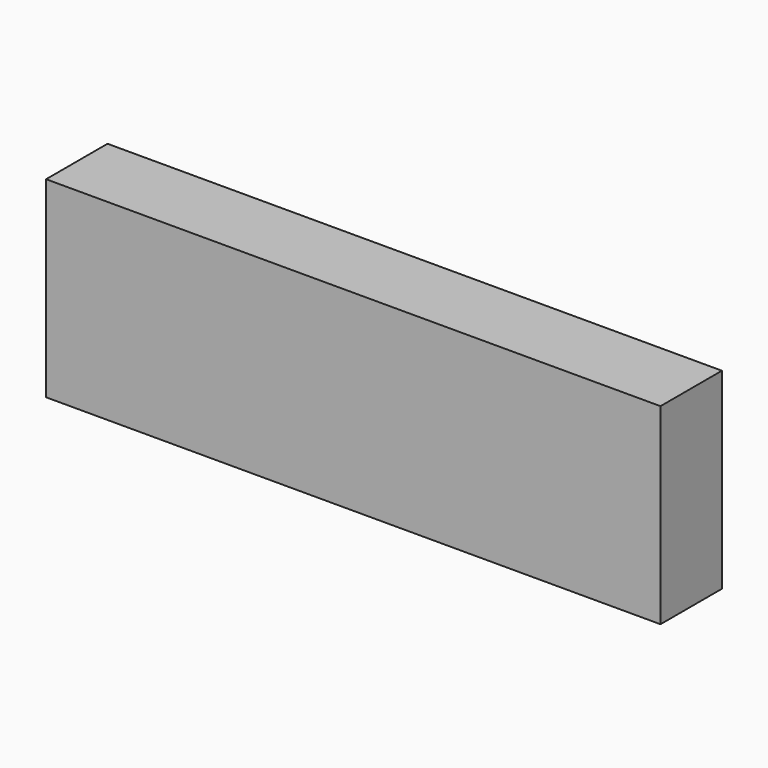
from build123d import *

# Parameters (mm, degrees)
SKETCH_W      = 160
SKETCH_H      = 20
EXTRUDE_DEPTH = 50


with BuildPart() as part:
    # Sketch → Extrude (new body)
    with BuildSketch(Plane.XY):
        Rectangle(SKETCH_W, SKETCH_H)
    extrude(amount=EXTRUDE_DEPTH)


solid = part.part
